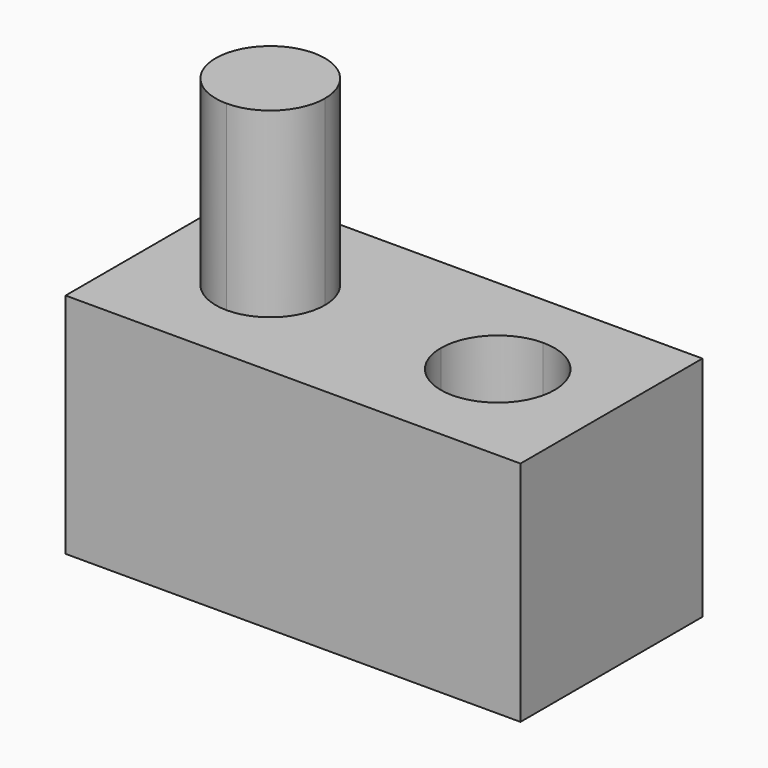
from build123d import *

# Parameters (mm, degrees)
F1_DEPTH = 12.7
F3_DEPTH = 10.16


with BuildPart() as f1:
    # F0 (on Top) → F1 (new body)
    with BuildSketch(Plane.XY):
        with BuildLine():
            Line((-6.35, -6.35), (6.35, -6.35))
            Line((6.35, -6.35), (6.35, -3.175))
            ThreePointArc((6.35, -3.175), (4.1049359697, -2.2450640303), (3.175, 0))
            Line((3.175, 0), (-3.302, 0))
            ThreePointArc((-3.302, 0), (-4.1947385309, -2.1552614691), (-6.35, -3.048))
            Line((-6.35, -3.048), (-6.35, -6.35))
        make_face()
        with BuildLine():
            Line((-3.302, 0), (3.175, 0))
            ThreePointArc((3.175, 0), (4.1049359697, 2.2450640303), (6.35, 3.175))
            Line((6.35, 3.175), (6.35, 6.35))
            Line((6.35, 6.35), (-6.35, 6.35))
            Line((-6.35, 6.35), (-6.35, 3.048))
            ThreePointArc((-6.35, 3.048), (-4.1947385309, 2.1552614691), (-3.302, 0))
        make_face()
        with BuildLine():
            Line((9.525, 0), (12.7, 0))
            Line((12.7, 0), (12.7, 6.35))
            Line((12.7, 6.35), (6.35, 6.35))
            Line((6.35, 6.35), (6.35, 3.175))
            ThreePointArc((6.35, 3.175), (8.5950640303, 2.2450640303), (9.525, 0))
        make_face()
        with BuildLine():
            Line((6.35, -6.35), (12.7, -6.35))
            Line((12.7, -6.35), (12.7, 0))
            Line((12.7, 0), (9.525, 0))
            ThreePointArc((9.525, 0), (8.5950640303, -2.2450640303), (6.35, -3.175))
            Line((6.35, -3.175), (6.35, -6.35))
        make_face()
        with BuildLine():
            Line((6.35, -6.35), (12.7, -6.35))
            Line((12.7, -6.35), (12.7, 0))
            Line((12.7, 0), (9.525, 0))
            ThreePointArc((9.525, 0), (8.5950640303, -2.2450640303), (6.35, -3.175))
            Line((6.35, -3.175), (6.35, -6.35))
        make_face()
        with BuildLine():
            Line((-12.7, -6.35), (-6.35, -6.35))
            Line((-6.35, -6.35), (-6.35, -3.048))
            ThreePointArc((-6.35, -3.048), (-8.5052614691, -2.1552614691), (-9.398, 0))
            Line((-9.398, 0), (-12.7, 0))
            Line((-12.7, 0), (-12.7, -6.35))
        make_face()
        with BuildLine():
            Line((9.525, 0), (12.7, 0))
            Line((12.7, 0), (12.7, 6.35))
            Line((12.7, 6.35), (6.35, 6.35))
            Line((6.35, 6.35), (6.35, 3.175))
            ThreePointArc((6.35, 3.175), (8.5950640303, 2.2450640303), (9.525, 0))
        make_face()
        with BuildLine():
            Line((-12.7, 6.35), (-12.7, 0))
            Line((-12.7, 0), (-9.398, 0))
            ThreePointArc((-9.398, 0), (-8.5052614691, 2.1552614691), (-6.35, 3.048))
            Line((-6.35, 3.048), (-6.35, 6.35))
            Line((-6.35, 6.35), (-12.7, 6.35))
        make_face()
        with BuildLine():
            Line((-6.35, -6.35), (6.35, -6.35))
            Line((6.35, -6.35), (6.35, -3.175))
            ThreePointArc((6.35, -3.175), (4.1049359697, -2.2450640303), (3.175, 0))
            Line((3.175, 0), (-3.302, 0))
            ThreePointArc((-3.302, 0), (-4.1947385309, -2.1552614691), (-6.35, -3.048))
            Line((-6.35, -3.048), (-6.35, -6.35))
        make_face()
        with BuildLine():
            Line((-3.302, 0), (3.175, 0))
            ThreePointArc((3.175, 0), (4.1049359697, 2.2450640303), (6.35, 3.175))
            Line((6.35, 3.175), (6.35, 6.35))
            Line((6.35, 6.35), (-6.35, 6.35))
            Line((-6.35, 6.35), (-6.35, 3.048))
            ThreePointArc((-6.35, 3.048), (-4.1947385309, 2.1552614691), (-3.302, 0))
        make_face()
        with BuildLine():
            Line((-12.7, -6.35), (-6.35, -6.35))
            Line((-6.35, -6.35), (-6.35, -3.048))
            ThreePointArc((-6.35, -3.048), (-8.5052614691, -2.1552614691), (-9.398, 0))
            Line((-9.398, 0), (-12.7, 0))
            Line((-12.7, 0), (-12.7, -6.35))
        make_face()
        with BuildLine():
            Line((-12.7, 6.35), (-12.7, 0))
            Line((-12.7, 0), (-9.398, 0))
            ThreePointArc((-9.398, 0), (-8.5052614691, 2.1552614691), (-6.35, 3.048))
            Line((-6.35, 3.048), (-6.35, 6.35))
            Line((-6.35, 6.35), (-12.7, 6.35))
        make_face()
        with BuildLine():
            Line((-6.35, 3.048), (-6.35, 0))
            Line((-6.35, 0), (-3.302, 0))
            ThreePointArc((-3.302, 0), (-4.1947385309, 2.1552614691), (-6.35, 3.048))
        make_face()
        with BuildLine():
            Line((-9.398, 0), (-6.35, 0))
            Line((-6.35, 0), (-6.35, 3.048))
            ThreePointArc((-6.35, 3.048), (-8.5052614691, 2.1552614691), (-9.398, 0))
        make_face()
        with BuildLine():
            ThreePointArc((-9.398, 0), (-8.5052614691, -2.1552614691), (-6.35, -3.048))
            Line((-6.35, -3.048), (-6.35, 0))
            Line((-6.35, 0), (-9.398, 0))
        make_face()
        with BuildLine():
            Line((-6.35, 0), (-6.35, -3.048))
            ThreePointArc((-6.35, -3.048), (-4.1947385309, -2.1552614691), (-3.302, 0))
            Line((-3.302, 0), (-6.35, 0))
        make_face()
    extrude(amount=F1_DEPTH)

    # F2 (on face) → F3 (join)
    with BuildSketch(Plane.XY.offset(12.7)):
        with BuildLine():
            Line((-6.35, 0), (-6.35, -3.048))
            ThreePointArc((-6.35, -3.048), (-4.1947385309, -2.1552614691), (-3.302, 0))
            Line((-3.302, 0), (-6.35, 0))
        make_face()
        with BuildLine():
            Line((-6.35, 3.048), (-6.35, 0))
            Line((-6.35, 0), (-3.302, 0))
            ThreePointArc((-3.302, 0), (-4.1947385309, 2.1552614691), (-6.35, 3.048))
        make_face()
        with BuildLine():
            ThreePointArc((-9.398, 0), (-8.5052614691, -2.1552614691), (-6.35, -3.048))
            Line((-6.35, -3.048), (-6.35, 0))
            Line((-6.35, 0), (-9.398, 0))
        make_face()
        with BuildLine():
            Line((-9.398, 0), (-6.35, 0))
            Line((-6.35, 0), (-6.35, 3.048))
            ThreePointArc((-6.35, 3.048), (-8.5052614691, 2.1552614691), (-9.398, 0))
        make_face()
    extrude(amount=F3_DEPTH)


solid = f1.part
